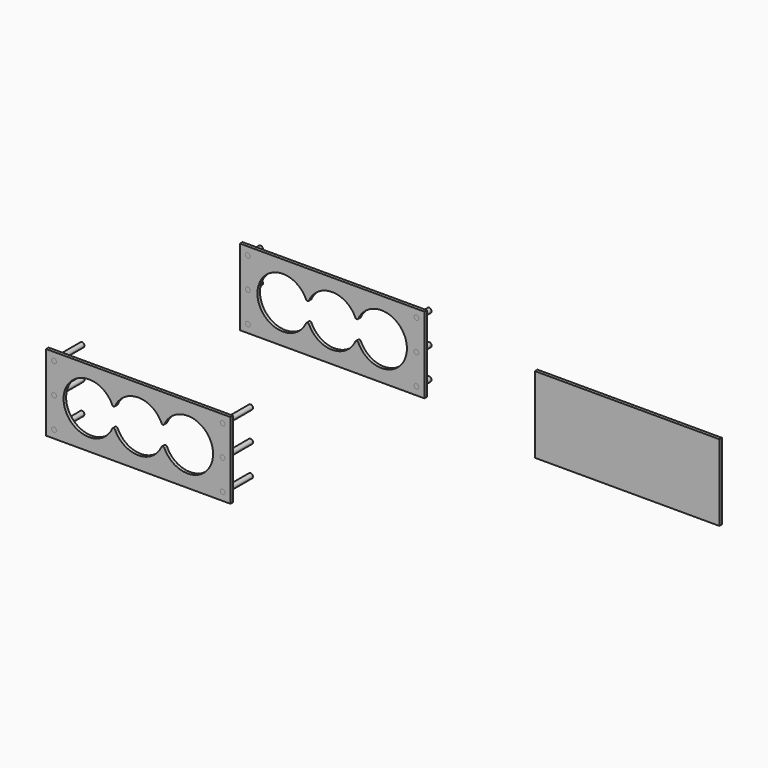
from build123d import *

# Parameters (mm, degrees)
F0_W     = 368.3
F0_H     = 152.4
F0_R     = 3.175
F1_DEPTH = 6.35
F2_R     = 4.7625
F3_DEPTH = 31.75
F4_W     = 368.3
F4_H     = 152.4
F5_DEPTH = 6.35
F6_W     = 368.3
F6_H     = 152.4
F6_R     = 3.175
F7_DEPTH = 6.35
F8_R     = 4.7625
F9_DEPTH = 69.85


with BuildPart() as f1:
    # F0 (on Front) → F1 (new body)
    with BuildSketch(Plane.XZ):
        with Locations((-67.68432, 17.024682)):
            Rectangle(F0_W, F0_H)
        with Locations((-235.95932, -43.300318)):
            Circle(F0_R, mode=Mode.SUBTRACT)
        with Locations((100.59068, -43.300318)):
            Circle(F0_R, mode=Mode.SUBTRACT)
        with Locations((-235.95932, 17.024682)):
            Circle(F0_R, mode=Mode.SUBTRACT)
        with BuildLine():
            ThreePointArc((-21.366673, -3.839536), (-67.68432, -33.775318), (-114.001967, -3.839536))
            ThreePointArc((-114.001967, -3.839536), (-116.89682, -1.968549), (-119.791673, -3.839536))
            ThreePointArc((-119.791673, -3.839536), (-216.90932, 17.024682), (-119.791673, 37.888899))
            ThreePointArc((-119.791673, 37.888899), (-116.89682, 36.017913), (-114.001967, 37.888899))
            ThreePointArc((-114.001967, 37.888899), (-67.68432, 67.824682), (-21.366673, 37.888899))
            ThreePointArc((-21.366673, 37.888899), (-18.47182, 36.017913), (-15.576967, 37.888899))
            ThreePointArc((-15.576967, 37.888899), (81.54068, 17.024682), (-15.576967, -3.839536))
            ThreePointArc((-15.576967, -3.839536), (-18.47182, -1.968549), (-21.366673, -3.839536))
        make_face(mode=Mode.SUBTRACT)
        with Locations((-235.95932, 77.349682)):
            Circle(F0_R, mode=Mode.SUBTRACT)
        with Locations((100.59068, 17.024682)):
            Circle(F0_R, mode=Mode.SUBTRACT)
        with Locations((100.59068, 77.349682)):
            Circle(F0_R, mode=Mode.SUBTRACT)
    extrude(amount=F1_DEPTH)


with BuildPart() as f3:
    # F2 (on face) → F3 (new body)
    with BuildSketch(Plane.XZ.offset(6.35)):
        with Locations((-235.95932, 77.349682)):
            Circle(F2_R)
        with Locations((-235.95932, 17.024682)):
            Circle(F2_R)
        with Locations((-235.95932, -43.300318)):
            Circle(F2_R)
        with Locations((100.59068, 77.349682)):
            Circle(F2_R)
        with Locations((100.59068, 17.024682)):
            Circle(F2_R)
        with Locations((100.59068, -43.300318)):
            Circle(F2_R)
    extrude(amount=-F3_DEPTH)


with BuildPart() as f5:
    # F4 (on Front) → F5 (new body)
    with BuildSketch(Plane.XZ):
        with Locations((521.225638, -15.689389)):
            Rectangle(F4_W, F4_H)
    extrude(amount=F5_DEPTH)


with BuildPart() as f7:
    # F6 (on Front) → F7 (new body)
    with BuildSketch(Plane.XZ):
        with Locations((-454.722074, -294.227093)):
            Rectangle(F6_W, F6_H)
        with Locations((-622.997074, -354.552093)):
            Circle(F6_R, mode=Mode.SUBTRACT)
        with Locations((-622.997074, -294.227093)):
            Circle(F6_R, mode=Mode.SUBTRACT)
        with Locations((-286.447074, -354.552093)):
            Circle(F6_R, mode=Mode.SUBTRACT)
        with BuildLine():
            ThreePointArc((-408.404427, -315.091311), (-454.722074, -345.027093), (-501.039721, -315.091311))
            ThreePointArc((-501.039721, -315.091311), (-503.934574, -313.220325), (-506.829427, -315.091311))
            ThreePointArc((-506.829427, -315.091311), (-603.947074, -294.227093), (-506.829427, -273.362876))
            ThreePointArc((-506.829427, -273.362876), (-503.934574, -275.233862), (-501.039721, -273.362876))
            ThreePointArc((-501.039721, -273.362876), (-454.722074, -243.427093), (-408.404427, -273.362876))
            ThreePointArc((-408.404427, -273.362876), (-405.509574, -275.233862), (-402.614721, -273.362876))
            ThreePointArc((-402.614721, -273.362876), (-305.497074, -294.227093), (-402.614721, -315.091311))
            ThreePointArc((-402.614721, -315.091311), (-405.509574, -313.220325), (-408.404427, -315.091311))
        make_face(mode=Mode.SUBTRACT)
        with Locations((-622.997074, -233.902093)):
            Circle(F6_R, mode=Mode.SUBTRACT)
        with Locations((-286.447074, -294.227093)):
            Circle(F6_R, mode=Mode.SUBTRACT)
        with Locations((-286.447074, -233.902093)):
            Circle(F6_R, mode=Mode.SUBTRACT)
    extrude(amount=F7_DEPTH)


with BuildPart() as f9:
    # F8 (on face) → F9 (new body)
    with BuildSketch(Plane.XZ.offset(6.35)):
        with Locations((-622.997074, -233.902093)):
            Circle(F8_R)
        with Locations((-622.997074, -294.227093)):
            Circle(F8_R)
        with Locations((-622.997074, -354.552093)):
            Circle(F8_R)
        with Locations((-286.447074, -233.902093)):
            Circle(F8_R)
        with Locations((-286.447074, -294.227093)):
            Circle(F8_R)
        with Locations((-286.447074, -354.552093)):
            Circle(F8_R)
    extrude(amount=-F9_DEPTH)


solid = Compound([f1.part, f3.part, f5.part, f7.part, f9.part])
